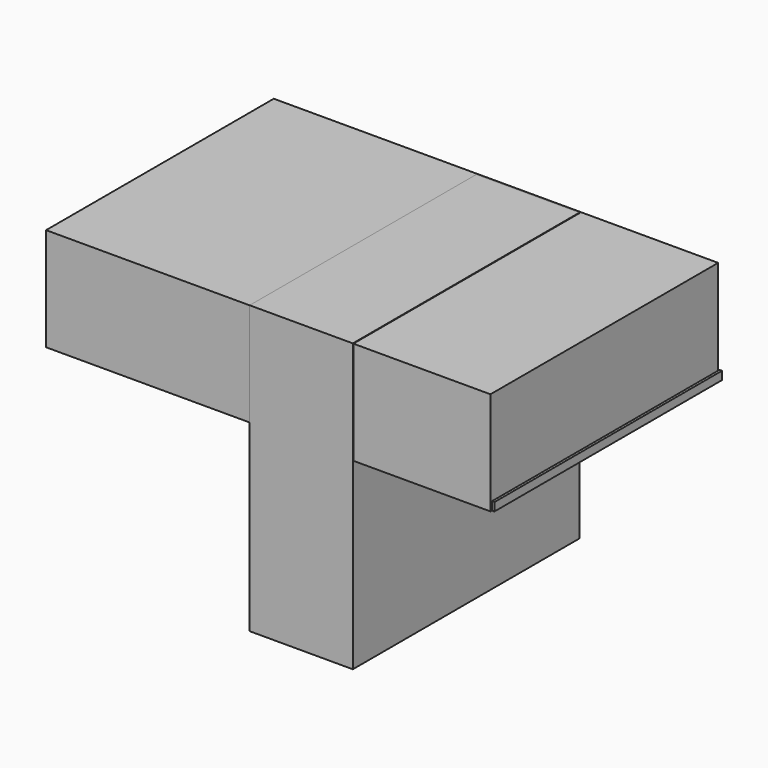
from build123d import *

# Parameters (mm, degrees)
F0_W     = 109.44755
F0_H     = 70.106957
F1_DEPTH = 25.4
F2_W     = 69.736343
F2_H     = 70.670309
F3_DEPTH = 25.4
F4_W     = 109.896999
F4_H     = 70.047663
F5_DEPTH = 2.032


with BuildPart() as f1:
    # F0 (on Top) → F1 (new body)
    with BuildSketch(Plane.XY):
        with Locations((4.438201, 7.047662)):
            Rectangle(F0_W, F0_H)
    extrude(amount=F1_DEPTH)

    # F2 (on Right) → F3 (join)
    with BuildSketch(Plane.YZ):
        with Locations((6.693443, -9.806676)):
            Rectangle(F2_W, F2_H)
    extrude(amount=F3_DEPTH)

    # F4 (on Top) → F5 (join)
    with BuildSketch(Plane.XY):
        with Locations((4.825505, 7.471751)):
            Rectangle(F4_W, F4_H)
    extrude(amount=F5_DEPTH)


solid = f1.part
